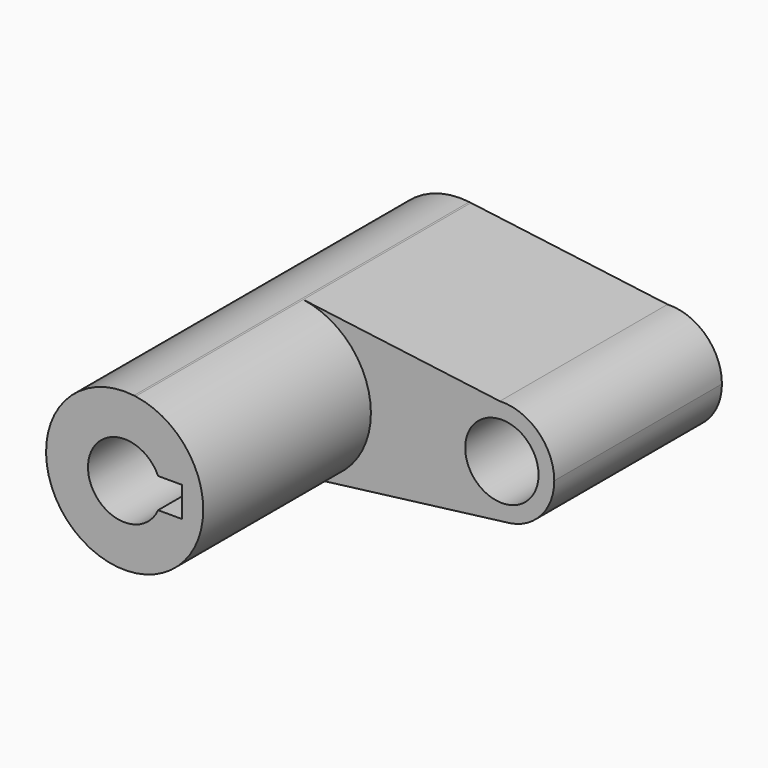
from build123d import *

# Parameters (mm, degrees)
F0_R     = 8.89
F1_DEPTH = 50.8
F2_DEPTH = 101.6


with BuildPart() as f1:
    # F0 (on Front) → F1 (new body)
    with BuildSketch(Plane.XZ):
        with BuildLine():
            Line((2.6478777145, 18.8650800054), (2.2465638598, 18.9170677121))
            ThreePointArc((2.2465638598, 18.9170677121), (-19.0466923173, -0.3549813672), (2.9498898479, -18.8202191774))
            ThreePointArc((2.9498898479, -18.8202191774), (14.4758057047, -12.3836000096), (19.05, 0))
            ThreePointArc((19.05, 0), (14.3761011832, 12.4992085657), (2.6478777145, 18.8650800054))
        make_face()
        with BuildLine():
            ThreePointArc((-8.1080465296, 3.6457758397), (0, 8.89), (8.1080465296, 3.6457758397))
            Line((8.1080465296, 3.6457758397), (13.893363066, 3.6457758397))
            Line((13.893363066, 3.6457758397), (13.893363066, -3.6457758397))
            Line((13.893363066, -3.6457758397), (8.1080465296, -3.6457758397))
            ThreePointArc((8.1080465296, -3.6457758397), (0, -8.89), (-8.1080465296, -3.6457758397))
            Line((-8.1080465296, -3.6457758397), (-13.893363066, -3.6457758397))
            Line((-13.893363066, -3.6457758397), (-13.893363066, 3.6457758397))
            Line((-13.893363066, 3.6457758397), (-8.1080465296, 3.6457758397))
        make_face(mode=Mode.SUBTRACT)
        with BuildLine():
            ThreePointArc((-8.1080465296, -3.6457758397), (-8.89, 0), (-8.1080465296, 3.6457758397))
            Line((-8.1080465296, 3.6457758397), (-13.893363066, 3.6457758397))
            Line((-13.893363066, 3.6457758397), (-13.893363066, -3.6457758397))
            Line((-13.893363066, -3.6457758397), (-8.1080465296, -3.6457758397))
        make_face()
        with BuildLine():
            ThreePointArc((19.05, 0), (14.4758057047, -12.3836000096), (2.9498898479, -18.8202191774))
            Line((2.9498898479, -18.8202191774), (52.0343965974, -12.6398680784))
            ThreePointArc((52.0343965974, -12.6398680784), (38.1292847418, -0.8619598857), (50.3112231952, 12.6905908939))
            Line((50.3112231952, 12.6905908939), (2.6478777145, 18.8650800054))
            ThreePointArc((2.6478777145, 18.8650800054), (14.3761011832, 12.4992085657), (19.05, 0))
        make_face()
        with BuildLine():
            ThreePointArc((50.3112231952, 12.6905908939), (38.1292847418, -0.8619598857), (52.0343965974, -12.6398680784))
            Line((52.0343965974, -12.6398680784), (52.7374904121, -12.5513398051))
            ThreePointArc((52.7374904121, -12.5513398051), (60.4409576348, -8.2669181612), (63.5, 0))
            ThreePointArc((63.5, 0), (59.6057519435, 9.1514333692), (50.3112231952, 12.6905908939))
        make_face()
        with Locations((50.8, 0)):
            Circle(F0_R, mode=Mode.SUBTRACT)
    extrude(amount=F1_DEPTH)

    # F0 (on Front) → F2 (join)
    with BuildSketch(Plane.XZ):
        with BuildLine():
            Line((2.6478777145, 18.8650800054), (2.2465638598, 18.9170677121))
            ThreePointArc((2.2465638598, 18.9170677121), (-19.0466923173, -0.3549813672), (2.9498898479, -18.8202191774))
            ThreePointArc((2.9498898479, -18.8202191774), (14.4758057047, -12.3836000096), (19.05, 0))
            ThreePointArc((19.05, 0), (14.3761011832, 12.4992085657), (2.6478777145, 18.8650800054))
        make_face()
        with BuildLine():
            ThreePointArc((-8.1080465296, 3.6457758397), (0, 8.89), (8.1080465296, 3.6457758397))
            Line((8.1080465296, 3.6457758397), (13.893363066, 3.6457758397))
            Line((13.893363066, 3.6457758397), (13.893363066, -3.6457758397))
            Line((13.893363066, -3.6457758397), (8.1080465296, -3.6457758397))
            ThreePointArc((8.1080465296, -3.6457758397), (0, -8.89), (-8.1080465296, -3.6457758397))
            Line((-8.1080465296, -3.6457758397), (-13.893363066, -3.6457758397))
            Line((-13.893363066, -3.6457758397), (-13.893363066, 3.6457758397))
            Line((-13.893363066, 3.6457758397), (-8.1080465296, 3.6457758397))
        make_face(mode=Mode.SUBTRACT)
        with BuildLine():
            ThreePointArc((-8.1080465296, -3.6457758397), (-8.89, 0), (-8.1080465296, 3.6457758397))
            Line((-8.1080465296, 3.6457758397), (-13.893363066, 3.6457758397))
            Line((-13.893363066, 3.6457758397), (-13.893363066, -3.6457758397))
            Line((-13.893363066, -3.6457758397), (-8.1080465296, -3.6457758397))
        make_face()
    extrude(amount=F2_DEPTH)


solid = f1.part
